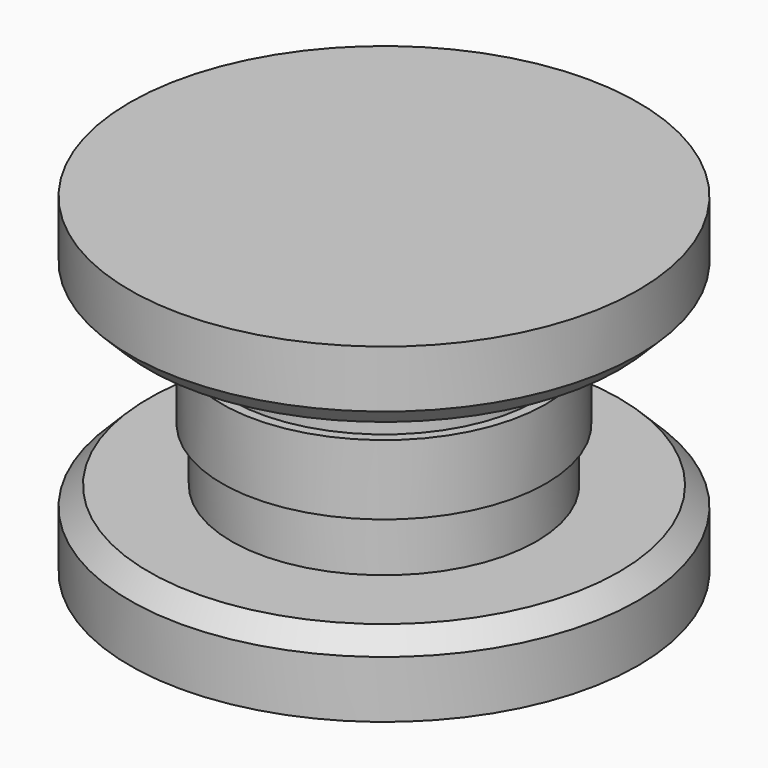
from build123d import *

# Parameters (mm, degrees)
F0_R      = 20
F1_DEPTH  = 6
F2_SIZE   = 1.5
F4_R      = 12
F5_DEPTH  = 4.25
F7_R      = 12.75
F8_DEPTH  = 5.5
F10_R     = 12
F11_DEPTH = 4.25
F13_R     = 20
F14_DEPTH = 6
F15_SIZE  = 1.5


with BuildPart() as f1:
    # F0 (on Top) → F1 (new body)
    with BuildSketch(Plane.XY):
        Circle(F0_R)
    extrude(amount=F1_DEPTH)

    # F2
    f2_edges = [f1.edges().sort_by_distance(p)[0] for p in [
        (-20, 0, 6),
    ]]
    chamfer(f2_edges, length=F2_SIZE)

    # F4 (on offset) → F5 (join)
    with BuildSketch(Plane.XY.offset(6)):
        Circle(F4_R)
    extrude(amount=F5_DEPTH)

    # F7 (on offset) → F8 (join)
    with BuildSketch(Plane.XY.offset(10.25)):
        Circle(F7_R)
    extrude(amount=F8_DEPTH)

    # F10 (on offset) → F11 (join)
    with BuildSketch(Plane.XY.offset(15.75)):
        Circle(F10_R)
    extrude(amount=F11_DEPTH)

    # F13 (on offset) → F14 (join)
    with BuildSketch(Plane.XY.offset(20)):
        Circle(F13_R)
    extrude(amount=F14_DEPTH)

    # F15
    f15_edges = [f1.edges().sort_by_distance(p)[0] for p in [
        (-20, 0, 20),
    ]]
    chamfer(f15_edges, length=F15_SIZE)


solid = f1.part
